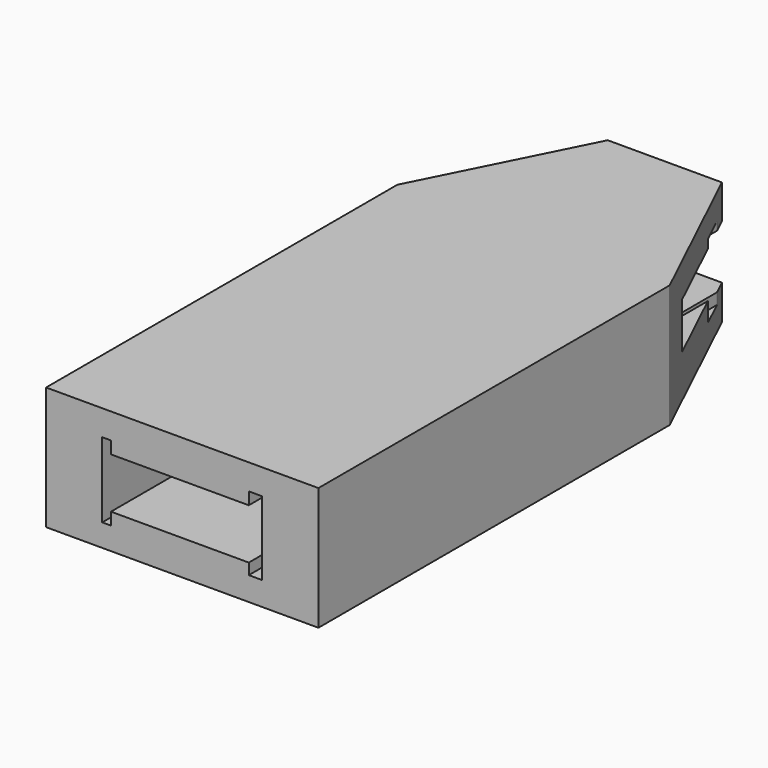
from build123d import *

# Parameters (mm, degrees)
F1_DEPTH = 25.4
F2_W     = 71.67115435
F2_H     = 9.5259128138
F3_DEPTH = 25.4
F4_DEPTH = 90.678
F5_W     = 2.7504333318
F5_H     = 2.2891710663
F5_H_2   = 10.414
F5_W_2   = 28.4633595034
F5_H_3   = 2.5368289337
F5_W_3   = 1.8062071648
F5_H_4   = 2.5342966719
F6_DEPTH = 254


with BuildPart() as f1:
    # F0 (on Top) → F1 (new body)
    with BuildSketch(Plane.XY):
        Polygon((13.3816469461, 0), (-10.2063324302, 0), (-26.9900802523, -33.3406925201), (29.2581655085, -33.3406925201), align=None)
    extrude(amount=F1_DEPTH)

    # F2 (on face) → F3 (cut)
    with BuildSketch(Plane(origin=(0, 0, 0), x_dir=(-1, 0, 0), z_dir=(0, 1, 0))):
        with Locations((-2.7216915041, 13.6072267778)):
            Rectangle(F2_W, F2_H)
    extrude(amount=-F3_DEPTH, mode=Mode.SUBTRACT)

    # F4 (add): a face of the model
    f4_faces = [f1.faces().sort_by_distance(p)[0] for p in [
        (1.1340426281, -33.3406925201, 12.7),
    ]]
    extrude(f4_faces, amount=F4_DEPTH)

    # F5 (on face) → F6 (cut)
    with BuildSketch(Plane.XZ.offset(124.0186925201)):
        with Locations((16.251562838, 6.0353870775)):
            Rectangle(F5_W, F5_H)
        with Locations((16.251562838, 12.3869726107)):
            Rectangle(F5_W, F5_H_2)
        with Locations((0.6446664204, 12.3869726107)):
            Rectangle(F5_W_2, F5_H_2)
        with Locations((16.251562838, 18.8623870775)):
            Rectangle(F5_W, F5_H_3)
        with Locations((-14.4901169138, 5.9128242747)):
            Rectangle(F5_W_3, F5_H_4)
        with Locations((-14.4901169138, 12.3869726107)):
            Rectangle(F5_W_3, F5_H_2)
        with Locations((-14.4901169138, 18.8623870775)):
            Rectangle(F5_W_3, F5_H_3)
    extrude(amount=-F6_DEPTH, mode=Mode.SUBTRACT)


solid = f1.part
